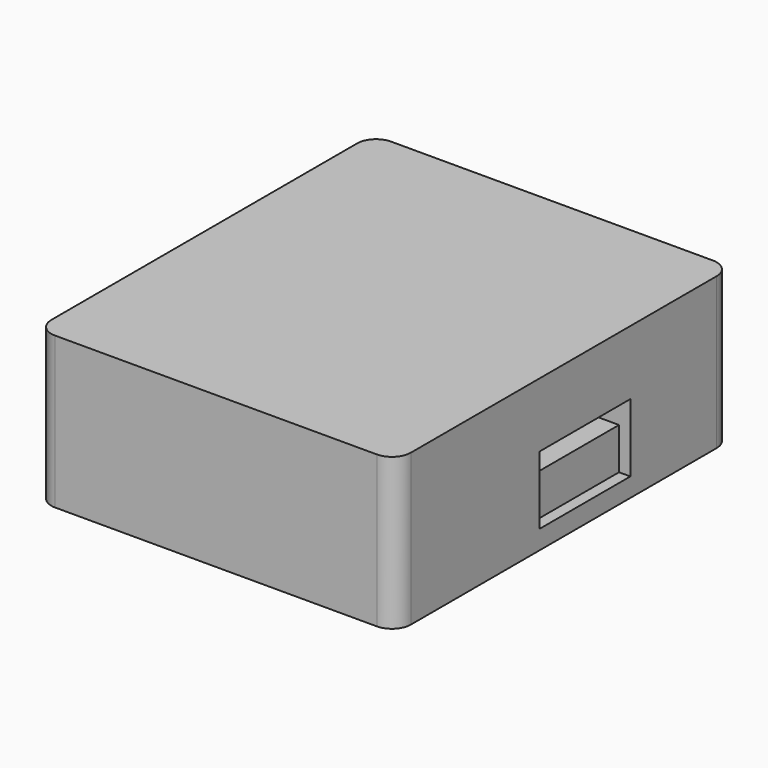
from build123d import *

# Parameters (mm, degrees)
SKETCH006_W     = 9.5
SKETCH006_H     = 11.1
PAD004_DEPTH    = 3.5
SKETCH013_W     = 3
SKETCH013_H     = 0.65
POCKET005_DEPTH = 1
SKETCH014_W     = 9.5
SKETCH014_H     = 11.1
PAD007_DEPTH    = 0.5
FILLET007_R     = 0.5
SKETCH019_W     = 3
SKETCH019_H     = 0.65
POCKET006_DEPTH = 1
SKETCH020_W     = 3
SKETCH020_H     = 1.8
POCKET007_DEPTH = 0.3
SKETCH021_W     = 3
SKETCH021_H     = 1.8
POCKET008_DEPTH = 0.3


with BuildPart() as part:
    # Sketch006 → Pad004 (new body)
    with BuildSketch(Plane.XY):
        with Locations((0, -0.7)):
            Rectangle(SKETCH006_W, SKETCH006_H)
    extrude(amount=-PAD004_DEPTH)

    # Sketch013 (on Face4 of Pad004) → Pocket005 (cut)
    with BuildSketch(Plane.YZ.offset(4.75)):
        with Locations((0, -2.075)):
            Rectangle(SKETCH013_W, SKETCH013_H)
    extrude(amount=-POCKET005_DEPTH, mode=Mode.SUBTRACT)

    # Sketch014 (on Face5 of Pocket005) → Pad007 (join)
    with BuildSketch(Plane(origin=(0, 0, -3.5), x_dir=(-1, 0, 0), z_dir=(0, 0, -1))):
        with Locations((0, -0.7)):
            Rectangle(SKETCH014_W, SKETCH014_H)
    extrude(amount=PAD007_DEPTH)

    # Fillet007
    fillet007_edges = [part.edges().sort_by_distance(p)[0] for p in [
        (4.75, -6.25, -3.75),
        (-4.75, -6.25, -3.75),
        (4.75, 4.85, -3.75),
        (-4.75, 4.85, -3.75),
    ]]
    fillet(fillet007_edges, radius=FILLET007_R)

    # Sketch019 (on Face7 of Fillet007) → Pocket006 (cut)
    with BuildSketch(Plane(origin=(-4.75, 0, 0), x_dir=(0, -1, 0), z_dir=(-1, 0, 0))):
        with Locations((0, -2.075)):
            Rectangle(SKETCH019_W, SKETCH019_H)
    extrude(amount=-POCKET006_DEPTH, mode=Mode.SUBTRACT)

    # Sketch020 (on Face6 of Pocket006) → Pocket007 (cut)
    with BuildSketch(Plane.YZ.offset(4.75)):
        with Locations((0, -2.6)):
            Rectangle(SKETCH020_W, SKETCH020_H)
    extrude(amount=-POCKET007_DEPTH, mode=Mode.SUBTRACT)

    # Sketch021 (on Face7 of Pocket007) → Pocket008 (cut)
    with BuildSketch(Plane(origin=(-4.75, 0, 0), x_dir=(0, -1, 0), z_dir=(-1, 0, 0))):
        with Locations((0, -2.6)):
            Rectangle(SKETCH021_W, SKETCH021_H)
    extrude(amount=-POCKET008_DEPTH, mode=Mode.SUBTRACT)


solid = part.part
